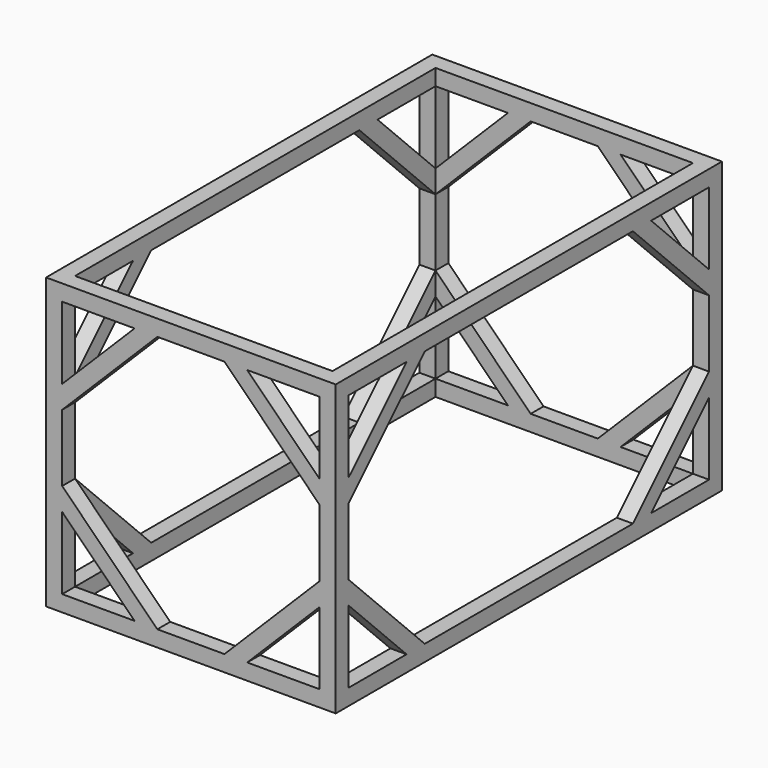
from build123d import *

# Parameters (mm, degrees)
F0_W     = 914.4
F0_H     = 1524
F1_DEPTH = 914.4
F3_DEPTH = 2540
F5_DEPTH = 2540
F7_DEPTH = 914.4


with BuildPart() as f1:
    # F0 (on Top) → F1 (new body)
    with BuildSketch(Plane.XY):
        with Locations((457.2, 762)):
            Rectangle(F0_W, F0_H)
    extrude(amount=F1_DEPTH)

    # F2 (on Right) → F3 (cut)
    with BuildSketch(Plane.YZ):
        Polygon((1244.6, 863.6), (1473.2, 635), (1473.2, 863.6), align=None)
        Polygon((1244.6, 50.8), (1473.2, 50.8), (1473.2, 279.4), align=None)
        Polygon((1172.757951, 50.8), (1473.2, 351.242049), (1473.2, 563.157951), (1172.757951, 863.6), (351.242049, 863.6), (50.8, 563.157951), (50.8, 351.242049), (351.242049, 50.8), align=None)
        Polygon((50.8, 635), (279.4, 863.6), (50.8, 863.6), align=None)
        Polygon((50.8, 50.8), (279.4, 50.8), (50.8, 279.4), align=None)
    extrude(amount=F3_DEPTH, mode=Mode.SUBTRACT)

    # F4 (on Front) → F5 (cut)
    with BuildSketch(Plane.XZ):
        Polygon((50.8, 351.242049), (351.242049, 50.8), (563.157951, 50.8), (863.6, 351.242049), (863.6, 563.157951), (563.157951, 863.6), (351.242049, 863.6), (50.8, 563.157951), align=None)
        Polygon((50.8, 863.6), (50.8, 635), (279.4, 863.6), align=None)
        Polygon((50.8, 279.4), (50.8, 50.8), (279.4, 50.8), align=None)
        Polygon((863.6, 279.4), (635, 50.8), (863.6, 50.8), align=None)
        Polygon((635, 863.6), (863.6, 635), (863.6, 863.6), align=None)
    extrude(amount=-F5_DEPTH, mode=Mode.SUBTRACT)

    # F6 (on face) → F7 (cut)
    with BuildSketch(Plane.XY.offset(914.4)):
        Polygon((50.8, 1473.2), (50.8, 1472.929239), (50.8, 50.8), (863.6, 50.8), (863.6, 1473.2), align=None)
    extrude(amount=-F7_DEPTH, mode=Mode.SUBTRACT)


solid = f1.part
